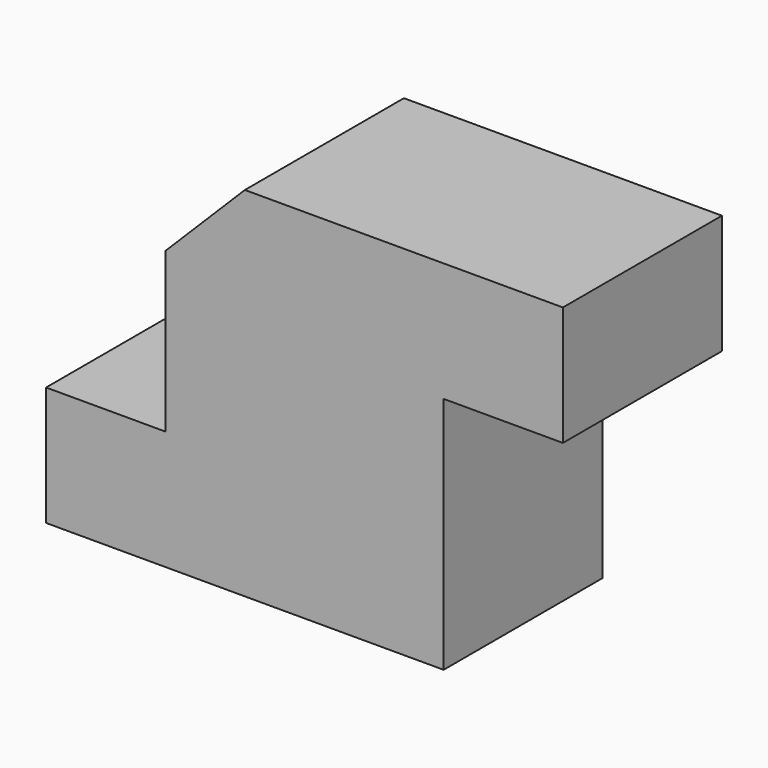
from build123d import *

# Parameters (mm, degrees)
F1_DEPTH = 12.5
F2_SIZE  = 10


with BuildPart() as f1:
    # F0 (on Front) → F1 (new body, symmetric)
    with BuildSketch(Plane.XZ):
        Polygon((0, 15), (0, 0), (50, 0), (50, 30), (65, 30), (65, 45), (15, 45), (15, 15), align=None)
    extrude(amount=F1_DEPTH, both=True)

    # F2
    f2_edges = [f1.edges().sort_by_distance(p)[0] for p in [
        (15, 0, 45),
    ]]
    chamfer(f2_edges, length=F2_SIZE)


solid = f1.part
